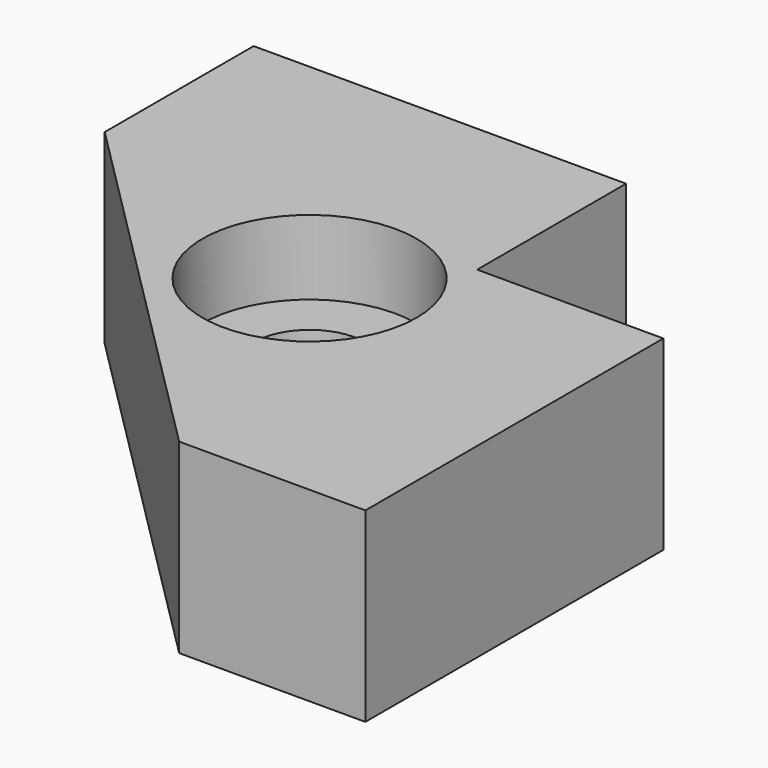
from build123d import *

# Parameters (mm, degrees)
F1_DEPTH = 6
F3_DEPTH = 10
F4_W     = 20
F4_H     = 6
F5_DEPTH = 10
F7_DEPTH = 25
F8_DEPTH = 4


with BuildPart() as f1:
    # F0 (on Top) → F1 (new body)
    with BuildSketch(Plane.XY):
        Polygon((0, -20), (0, 0), (-20, 0), align=None)
    extrude(amount=F1_DEPTH)

    # F3 (add): a face of the model
    f3_faces = [f1.faces().sort_by_distance(p)[0] for p in [
        (-10, 0, 3),
    ]]
    extrude(f3_faces, amount=F3_DEPTH)

    # F4 (on face) → F5 (join)
    with BuildSketch(Plane.YZ):
        with Locations((-10, 3)):
            Rectangle(F4_W, F4_H)
    extrude(amount=F5_DEPTH)

    # F6 (on face) → F7 (cut)
    with BuildSketch(Plane.XY.offset(6)):
        with BuildLine():
            ThreePointArc((-2, -5), (-6.1480502971, -2.2283614025), (-7.1213203436, -7.1213203436))
            ThreePointArc((-7.1213203436, -7.1213203436), (-3.8519497029, -7.7716385975), (-2, -5))
        make_face()
    extrude(amount=-F7_DEPTH, mode=Mode.SUBTRACT)

    # F6 (on face) → F8 (join)
    with BuildSketch(Plane.XY.offset(6)):
        Polygon((-20, 0), (-10, -10), (0, -20), (10, -20), (10, 0), (0, 0), (0, 10), (-20, 10), align=None)
        with BuildLine():
            ThreePointArc((0.75, -5), (-2.7995702639, -10.3123073119), (-9.0658639918, -9.0658639918))
            ThreePointArc((-9.0658639918, -9.0658639918), (-7.2004297361, 0.3123073119), (0.75, -5))
        make_face(mode=Mode.SUBTRACT)
    extrude(amount=F8_DEPTH)


solid = f1.part
